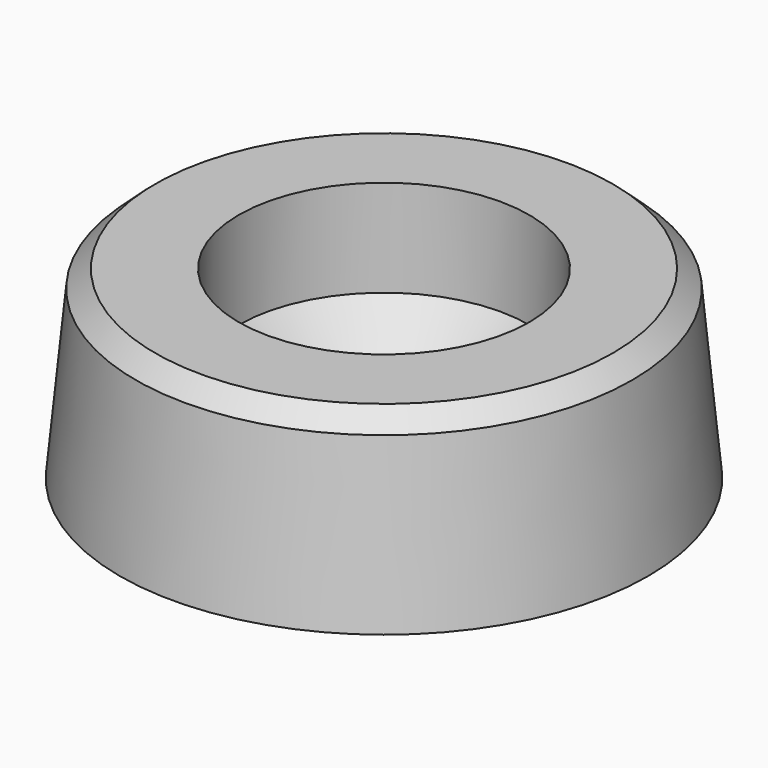
from build123d import *

# Parameters (mm, degrees)
F2_SIZE = 1


with BuildPart() as f1:
    # F0 (on Front) → F1 (revolve)
    with BuildSketch(Plane.XZ):
        Polygon((4.25, 1), (4.25, 0), (15, 0), (14, 10.5), (8.25, 10.5), (8.25, 5), align=None)
    revolve(axis=Axis((0, 0, 5.25), (0, 0, 1)))

    # F2
    f2_edges = [f1.edges().sort_by_distance(p)[0] for p in [
        (-14, 0, 10.5),
    ]]
    chamfer(f2_edges, length=F2_SIZE)


solid = f1.part
